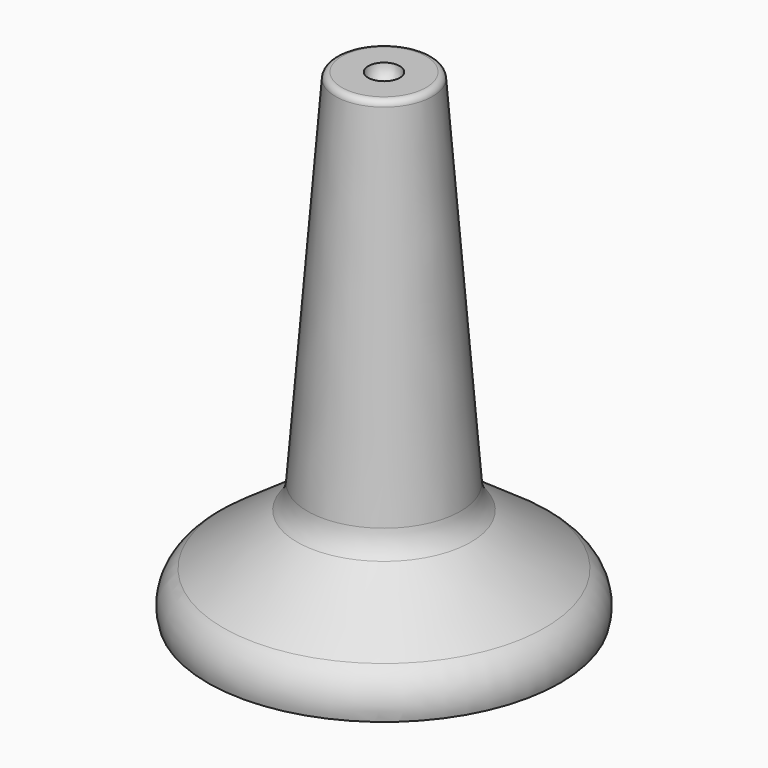
from build123d import *


with BuildPart() as f1:
    # F0 (on Right) → F1 (revolve)
    with BuildSketch(Plane.YZ):
        with BuildLine():
            Line((3.39121, 39.494349), (1.27, 39.494349))
            ThreePointArc((1.27, 39.494349), (0.898026, 38.596323), (0, 38.224349))
            Line((0, 38.224349), (0, 0.886349))
            Line((0, 0.886349), (14.161272, 0.886349))
            ThreePointArc((14.161272, 0.886349), (14.105651, 2.831789), (12.925342, 4.379272))
            Line((12.925342, 4.379272), (6.986425, 8.509719))
            ThreePointArc((6.986425, 8.509719), (6.406418, 9.394021), (6.14902, 10.419763))
            Line((6.14902, 10.419763), (3.897644, 39.026206))
            ThreePointArc((3.897644, 39.026206), (3.73604, 39.359385), (3.39121, 39.494349))
        make_face()
    revolve(axis=Axis((0, 0, 19.555349), (0, 0, -1)))


solid = f1.part
